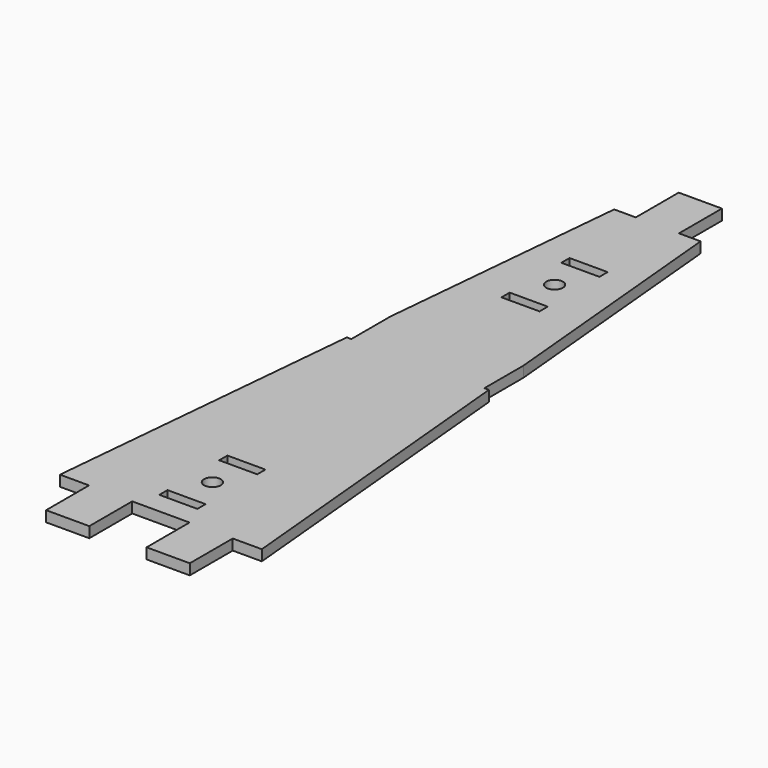
from build123d import *

# Parameters (mm, degrees)
SKETCH010_R  = 3.9
SKETCH010_W  = 17.8
SKETCH010_H  = 4.8
PAD010_DEPTH = 5


with BuildPart() as part:
    # Sketch010 → Pad010 (new body)
    with BuildSketch(Plane.XY):
        Polygon((-10.1, 160.1), (-20.2, 160.1), (-31.1, 42.945185), (-31.1, 20.1), (-33.2255, 20.1), (-47.2, -130.1), (-33.6, -130.1), (-33.6, -155.2), (-13.4, -155.2), (-13.4, -130.1), (13.4, -130.1), (13.4, -155.2), (33.6, -155.2), (33.6, -130.1), (47.2, -130.1), (33.2255, 20.1), (31.1, 20.1), (31.1, 42.945185), (20.2, 160.1), (10.1, 160.1), (10.1, 185.2), (-10.1, 185.2), align=None)
        with Locations((0, -100)):
            Circle(SKETCH010_R, mode=Mode.SUBTRACT)
        with Locations((0, 100)):
            Circle(SKETCH010_R, mode=Mode.SUBTRACT)
        with Locations((0, 117.5)):
            Rectangle(SKETCH010_W, SKETCH010_H, mode=Mode.SUBTRACT)
        with Locations((0, 82.5)):
            Rectangle(SKETCH010_W, SKETCH010_H, mode=Mode.SUBTRACT)
        with Locations((0, -117.5)):
            Rectangle(SKETCH010_W, SKETCH010_H, mode=Mode.SUBTRACT)
        with Locations((0, -82.5)):
            Rectangle(SKETCH010_W, SKETCH010_H, mode=Mode.SUBTRACT)
    extrude(amount=PAD010_DEPTH)


solid = part.part
